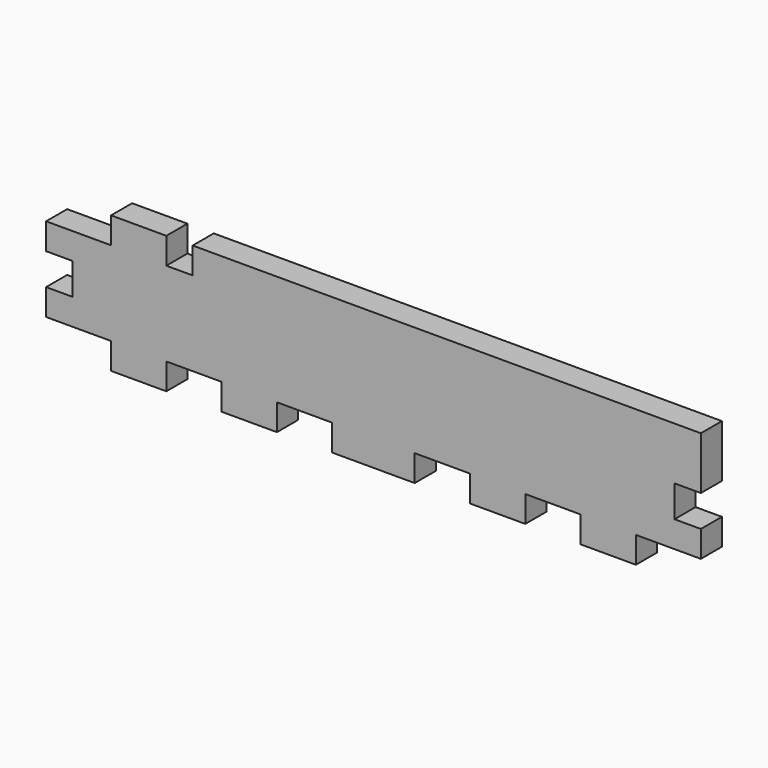
from build123d import *

# Parameters (mm, degrees)
F1_DEPTH = 3


with BuildPart() as f1:
    # F0 (on Front) → F1 (new body)
    with BuildSketch(Plane.XZ):
        Polygon((-32.600003, -15.6), (-32.600003, -12.6), (-26.300003, -12.6), (-26.300003, -15.6), (-20.000003, -15.6), (-20.000003, -12.6), (-13.700003, -12.6), (-13.700003, -15.6), (-7.400003, -15.6), (-7.400003, -12.6), (-3e-06, -12.6), (-3e-06, -9.6), (-3.000003, -9.6), (-3.000003, -6), (-3e-06, -6), (-3e-06, 0), (-57.900003, 0), (-57.900003, -3), (-60.900003, -3), (-60.900003, 0), (-67.200003, 0), (-67.200003, -3), (-74.600003, -3), (-74.600003, -6), (-71.600003, -6), (-71.600003, -9.6), (-74.600003, -9.6), (-74.600003, -12.6), (-67.200003, -12.6), (-67.200003, -15.6), (-60.900003, -15.6), (-60.900003, -12.6), (-54.600003, -12.6), (-54.600003, -15.6), (-48.300003, -15.6), (-48.300003, -12.6), (-42.000003, -12.6), (-42.000003, -15.6), align=None)
    extrude(amount=F1_DEPTH)


solid = f1.part
